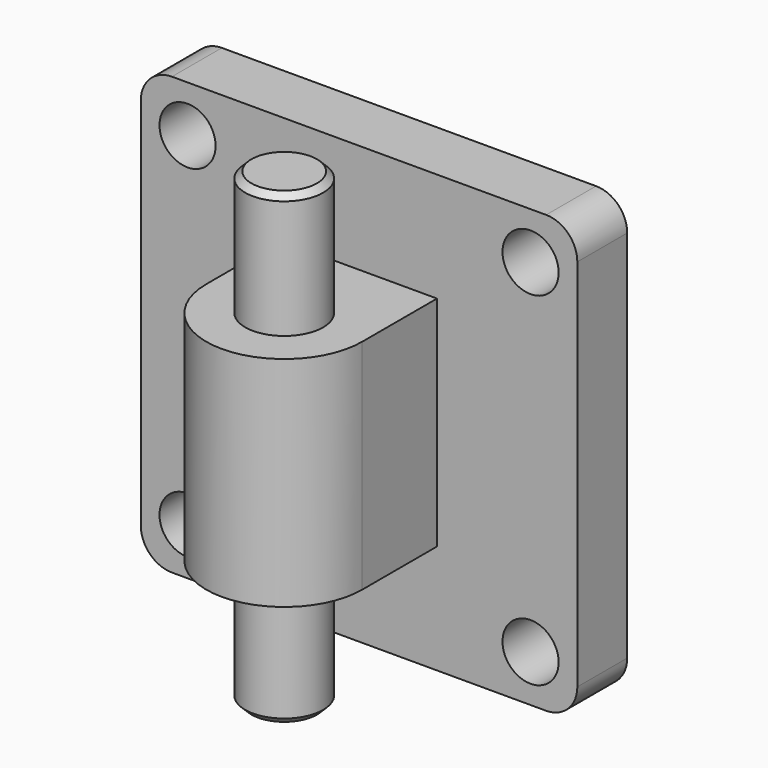
from build123d import *

# Parameters (mm, degrees)
F0_R     = 9
F1_DEPTH = 10
F3_R     = 12.5
F4_DEPTH = 35
F5_R     = 30
F6_DEPTH = 5
F7_DEPTH = 75
F8_SIZE  = 2


with BuildPart() as f1:
    # F0 (on Front) → F1 (new body, symmetric)
    with BuildSketch(Plane.XZ):
        with BuildLine():
            Line((-60, -70), (60, -70))
            ThreePointArc((60, -70), (67.0710678119, -67.0710678119), (70, -60))
            Line((70, -60), (70, 60))
            ThreePointArc((70, 60), (67.0710678119, 67.0710678119), (60, 70))
            Line((60, 70), (-60, 70))
            ThreePointArc((-60, 70), (-67.0710678119, 67.0710678119), (-70, 60))
            Line((-70, 60), (-70, -60))
            ThreePointArc((-70, -60), (-67.0710678119, -67.0710678119), (-60, -70))
        make_face()
        with Locations((-55, -55)):
            Circle(F0_R, mode=Mode.SUBTRACT)
        with Locations((55, -55)):
            Circle(F0_R, mode=Mode.SUBTRACT)
        with Locations((-55, 55)):
            Circle(F0_R, mode=Mode.SUBTRACT)
        with Locations((55, 55)):
            Circle(F0_R, mode=Mode.SUBTRACT)
    extrude(amount=F1_DEPTH, both=True)

    # F3 (on Top) → F4 (join, symmetric)
    with BuildSketch(Plane.XY):
        with BuildLine():
            Line((-25, -10), (-25, -40))
            ThreePointArc((-25, -40), (0, -65), (25, -40))
            Line((25, -40), (25, -10))
            Line((25, -10), (-25, -10))
        make_face()
        with Locations((0, -40)):
            Circle(F3_R, mode=Mode.SUBTRACT)
    extrude(amount=F4_DEPTH, both=True)

    # F5 (on face) → F6 (cut)
    with BuildSketch(Plane(origin=(0, 10, 0), x_dir=(-1, 0, 0), z_dir=(0, 1, 0))):
        Circle(F5_R)
    extrude(amount=-F6_DEPTH, mode=Mode.SUBTRACT)


with BuildPart() as f7:
    # F3 (on Top) → F7 (new body, symmetric)
    with BuildSketch(Plane.XY):
        with Locations((0, -40)):
            Circle(F3_R)
    extrude(amount=F7_DEPTH, both=True)

    # F8
    f8_edges = [f7.edges().sort_by_distance(p)[0] for p in [
        (-12.5, -40, 75),
        (-12.5, -40, -75),
    ]]
    chamfer(f8_edges, length=F8_SIZE)


solid = Compound([f1.part, f7.part])
